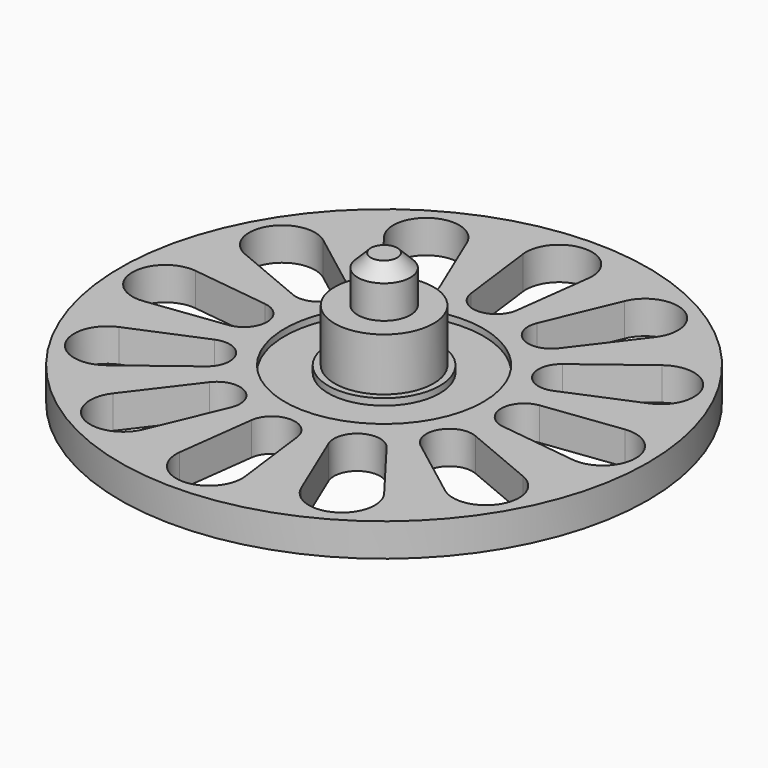
from build123d import *

# Parameters (mm, degrees)
F0_R     = 40
F0_R_2   = 15.05
F1_DEPTH = 5
F0_R_3   = 8.45
F2_DEPTH = 4
F0_R_4   = 7.5
F3_DEPTH = 5
F0_R_5   = 4
F4_DEPTH = 13
F5_DEPTH = 20
F6_SIZE2 = 2
F6_SIZE  = 2


with BuildPart() as f1:
    # F0 (on Top) → F1 (new body)
    with BuildSketch(Plane.XY):
        Circle(F0_R)
        with BuildLine():
            ThreePointArc((-11.9611435045, -30.6375331929), (-19.0718793869, -33.0334640939), (-20.5523103021, -25.6774207297))
            Line((-20.5523103021, -25.6774207297), (-13.4086800794, -16.2803577113))
            ThreePointArc((-13.4086800794, -16.2803577113), (-8.8723784387, -15.3674102398), (-7.394863321, -19.7524364356))
            Line((-7.394863321, -19.7524364356), (-11.9611435045, -30.6375331929))
        make_face(mode=Mode.SUBTRACT)
        with BuildLine():
            ThreePointArc((4.9601124633, -32.5134538066), (0, -38.1437587738), (-4.9601124633, -32.5134538066))
            Line((-4.9601124633, -32.5134538066), (-3.4720787243, -20.8035434004))
            ThreePointArc((-3.4720787243, -20.8035434004), (0, -17.7447568774), (3.4720787243, -20.8035434004))
            Line((3.4720787243, -20.8035434004), (4.9601124633, -32.5134538066))
        make_face(mode=Mode.SUBTRACT)
        with BuildLine():
            ThreePointArc((-25.6774207297, -20.5523103021), (-33.0334640939, -19.0718793869), (-30.6375331929, -11.9611435045))
            Line((-30.6375331929, -11.9611435045), (-19.7524364356, -7.394863321))
            ThreePointArc((-19.7524364356, -7.394863321), (-15.3674102398, -8.8723784387), (-16.2803577113, -13.4086800794))
            Line((-16.2803577113, -13.4086800794), (-25.6774207297, -20.5523103021))
        make_face(mode=Mode.SUBTRACT)
        with BuildLine():
            ThreePointArc((20.5523103021, -25.6774207297), (19.0718793869, -33.0334640939), (11.9611435045, -30.6375331929))
            Line((11.9611435045, -30.6375331929), (7.394863321, -19.7524364356))
            ThreePointArc((7.394863321, -19.7524364356), (8.8723784387, -15.3674102398), (13.4086800794, -16.2803577113))
            Line((13.4086800794, -16.2803577113), (20.5523103021, -25.6774207297))
        make_face(mode=Mode.SUBTRACT)
        with BuildLine():
            ThreePointArc((30.6375331929, -11.9611435045), (33.0334640939, -19.0718793869), (25.6774207297, -20.5523103021))
            Line((25.6774207297, -20.5523103021), (16.2803577113, -13.4086800794))
            ThreePointArc((16.2803577113, -13.4086800794), (15.3674102398, -8.8723784387), (19.7524364356, -7.394863321))
            Line((19.7524364356, -7.394863321), (30.6375331929, -11.9611435045))
        make_face(mode=Mode.SUBTRACT)
        with BuildLine():
            ThreePointArc((32.5134538066, 4.9601124633), (38.1437587738, 0), (32.5134538066, -4.9601124633))
            Line((32.5134538066, -4.9601124633), (20.8035434004, -3.4720787243))
            ThreePointArc((20.8035434004, -3.4720787243), (17.7447568774, 0), (20.8035434004, 3.4720787243))
            Line((20.8035434004, 3.4720787243), (32.5134538066, 4.9601124633))
        make_face(mode=Mode.SUBTRACT)
        with BuildLine():
            ThreePointArc((-32.5134538066, -4.9601124633), (-38.1437587738, 0), (-32.5134538066, 4.9601124633))
            Line((-32.5134538066, 4.9601124633), (-20.8035434004, 3.4720787243))
            ThreePointArc((-20.8035434004, 3.4720787243), (-17.7447568774, 0), (-20.8035434004, -3.4720787243))
            Line((-20.8035434004, -3.4720787243), (-32.5134538066, -4.9601124633))
        make_face(mode=Mode.SUBTRACT)
        with BuildLine():
            ThreePointArc((-30.6375331929, 11.9611435045), (-33.0334640939, 19.0718793869), (-25.6774207297, 20.5523103021))
            Line((-25.6774207297, 20.5523103021), (-16.2803577113, 13.4086800794))
            ThreePointArc((-16.2803577113, 13.4086800794), (-15.3674102398, 8.8723784387), (-19.7524364356, 7.394863321))
            Line((-19.7524364356, 7.394863321), (-30.6375331929, 11.9611435045))
        make_face(mode=Mode.SUBTRACT)
        with BuildLine():
            ThreePointArc((-20.5523103021, 25.6774207297), (-19.0718793869, 33.0334640939), (-11.9611435045, 30.6375331929))
            Line((-11.9611435045, 30.6375331929), (-7.394863321, 19.7524364356))
            ThreePointArc((-7.394863321, 19.7524364356), (-8.8723784387, 15.3674102398), (-13.4086800794, 16.2803577113))
            Line((-13.4086800794, 16.2803577113), (-20.5523103021, 25.6774207297))
        make_face(mode=Mode.SUBTRACT)
        Circle(F0_R_2, mode=Mode.SUBTRACT)
        with BuildLine():
            ThreePointArc((25.6774207297, 20.5523103021), (33.0334640939, 19.0718793869), (30.6375331929, 11.9611435045))
            Line((30.6375331929, 11.9611435045), (19.7524364356, 7.394863321))
            ThreePointArc((19.7524364356, 7.394863321), (15.3674102398, 8.8723784387), (16.2803577113, 13.4086800794))
            Line((16.2803577113, 13.4086800794), (25.6774207297, 20.5523103021))
        make_face(mode=Mode.SUBTRACT)
        with BuildLine():
            ThreePointArc((3.4720787243, 20.8035434004), (0, 17.7447568774), (-3.4720787243, 20.8035434004))
            Line((-3.4720787243, 20.8035434004), (-4.9601124633, 32.5134538066))
            ThreePointArc((-4.9601124633, 32.5134538066), (0, 38.1437587738), (4.9601124633, 32.5134538066))
            Line((4.9601124633, 32.5134538066), (3.4720787243, 20.8035434004))
        make_face(mode=Mode.SUBTRACT)
        with BuildLine():
            ThreePointArc((11.9611435045, 30.6375331929), (19.0718793869, 33.0334640939), (20.5523103021, 25.6774207297))
            Line((20.5523103021, 25.6774207297), (13.4086800794, 16.2803577113))
            ThreePointArc((13.4086800794, 16.2803577113), (8.8723784387, 15.3674102398), (7.394863321, 19.7524364356))
            Line((7.394863321, 19.7524364356), (11.9611435045, 30.6375331929))
        make_face(mode=Mode.SUBTRACT)
    extrude(amount=F1_DEPTH)

    # F0 (on Top) → F2 (join)
    with BuildSketch(Plane.XY):
        Circle(F0_R_2)
        Circle(F0_R_3, mode=Mode.SUBTRACT)
    extrude(amount=F2_DEPTH)

    # F0 (on Top) → F3 (join)
    with BuildSketch(Plane.XY):
        Circle(F0_R_3)
        Circle(F0_R_4, mode=Mode.SUBTRACT)
    extrude(amount=F3_DEPTH)

    # F0 (on Top) → F4 (join)
    with BuildSketch(Plane.XY):
        Circle(F0_R_4)
        Circle(F0_R_5, mode=Mode.SUBTRACT)
    extrude(amount=F4_DEPTH)

    # F0 (on Top) → F5 (join)
    with BuildSketch(Plane.XY):
        Circle(F0_R_5)
    extrude(amount=F5_DEPTH)

    # F6
    f6_edges = [f1.edges().sort_by_distance(p)[0] for p in [
        (-4, 0, 20),
    ]]
    chamfer(f6_edges, length=F6_SIZE, length2=F6_SIZE2)


solid = f1.part
